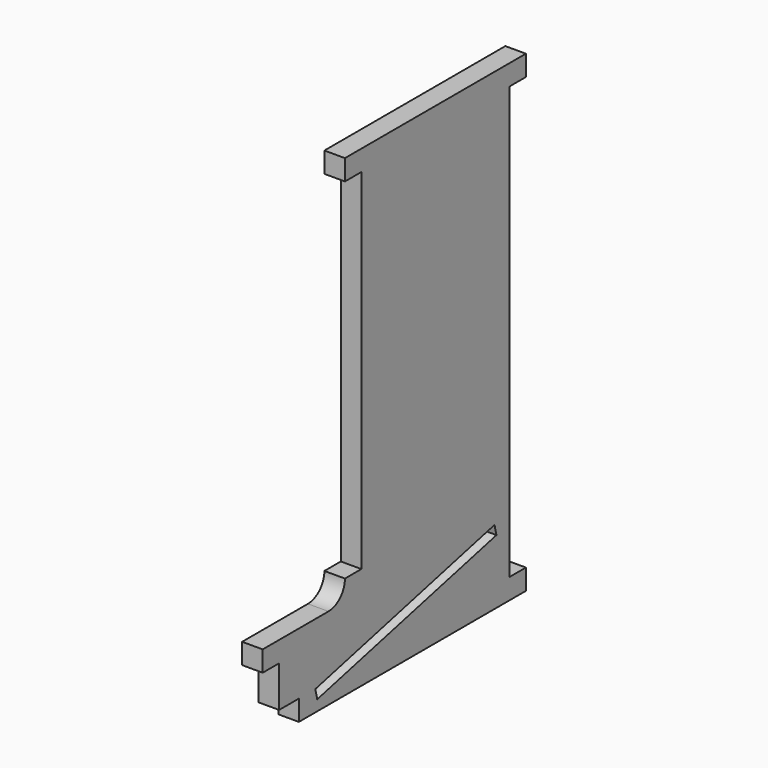
from build123d import *

# Parameters (mm, degrees)
F0_W      = 31.75
F0_H      = 25.4
F1_DEPTH  = 6.35
F2_W      = 6.35
F2_H      = 133.35
F3_DEPTH  = 12.446
F4_W      = 6.35
F4_H      = 107.95
F5_DEPTH  = 9.906
F6_W      = 7.62
F6_H      = 6.35
F7_DEPTH  = 10.668
F8_W      = 6.35
F8_H      = 6.35
F9_DEPTH  = 6.35
F10_R     = 6.35
F11_DEPTH = 8.9408
F13_DEPTH = 6.351


with BuildPart() as f1:
    # F0 (on Right) → F1 (new body)
    with BuildSketch(Plane.YZ):
        Polygon((-69.85, 0), (0, 0), (0, 146.05), (-69.85, 146.05), (-69.85, 25.4), align=None)
        with Locations((-85.725, 12.7)):
            Rectangle(F0_W, F0_H)
    extrude(amount=F1_DEPTH)

    # F2 (on Right) → F3 (cut)
    with BuildSketch(Plane.YZ):
        with Locations((-3.175, 73.025)):
            Rectangle(F2_W, F2_H)
    extrude(amount=F3_DEPTH, mode=Mode.SUBTRACT)

    # F4 (on Right) → F5 (cut)
    with BuildSketch(Plane.YZ):
        with Locations((-66.675, 85.725)):
            Rectangle(F4_W, F4_H)
    extrude(amount=F5_DEPTH, mode=Mode.SUBTRACT)

    # F6 (on Right) → F7 (cut)
    with BuildSketch(Plane.YZ):
        Polygon((-95.25, 19.05), (-101.6, 19.05), (-101.6, 0), (-95.25, 0), (-95.25, 6.35), align=None)
        with Locations((-91.44, 3.175)):
            Rectangle(F6_W, F6_H)
    extrude(amount=F7_DEPTH, mode=Mode.SUBTRACT)

    # F8 (on Right) → F9 (join)
    with BuildSketch(Plane.YZ):
        with Locations((-73.025, 28.575)):
            Rectangle(F8_W, F8_H)
    extrude(amount=F9_DEPTH)

    # F10 (on Right) → F11 (cut)
    with BuildSketch(Plane.YZ):
        with Locations((-76.2, 31.75)):
            Circle(F10_R)
    extrude(amount=F11_DEPTH, mode=Mode.SUBTRACT)

    # F12 (on face) → F13 (cut, through all)
    with BuildSketch(Plane(origin=(0, 0, 0), x_dir=(0, -1, 0), z_dir=(-1, 0, 0))):
        Polygon((80.54212, 3.261933), (81.28, 6.35), (12.107297, 22.878509), (11.369418, 19.790442), align=None)
    extrude(amount=-F13_DEPTH, mode=Mode.SUBTRACT)


solid = f1.part
